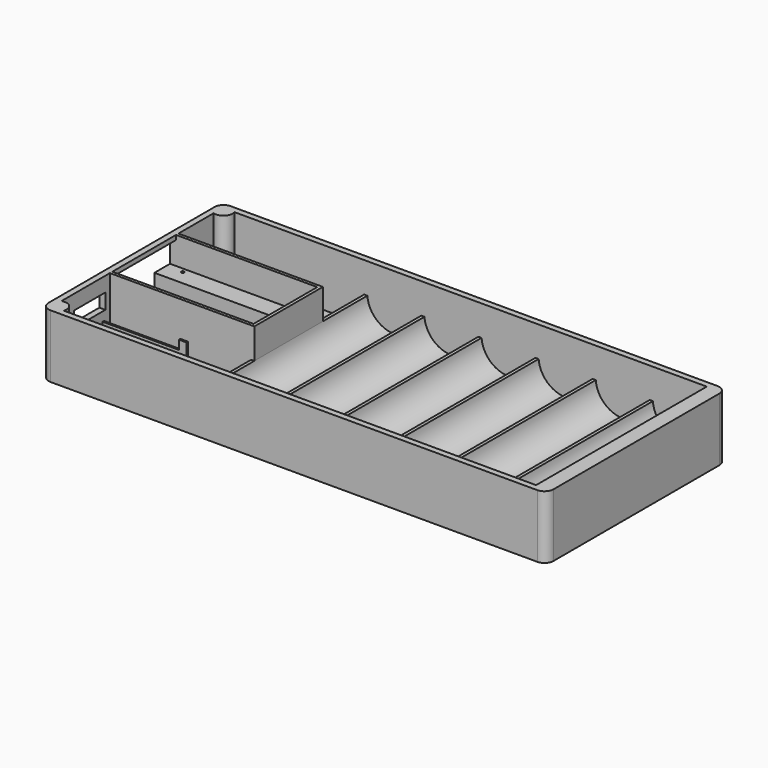
from build123d import *

# Parameters (mm, degrees)
F0_W      = 168
F0_H      = 75
F1_DEPTH  = 21
F2_T      = -2
F4_DEPTH  = 71
F5_R      = 3
F6_R      = 3
F7_DEPTH  = 19
F8_W      = 13.1
F8_H      = 5.1
F9_DEPTH  = 2
F10_W     = 28
F10_H     = 0.6
F11_DEPTH = 6
F12_W     = 46.9999787775
F12_H     = 1
F13_DEPTH = 19
F14_W     = 46.9999787775
F14_H     = 1
F15_DEPTH = 8.9
F16_W     = 48.0559787775
F16_H     = 7.5
F17_DEPTH = 1
F18_W     = 48.0559787775
F18_H     = 1
F19_DEPTH = 9.1
F20_W     = 1.056
F20_H     = 21
F21_DEPTH = 10.1
F22_W     = 1.056
F22_H     = 6.5
F23_DEPTH = 9.1
F25_DEPTH = 2
F26_R     = 0.5
F27_DEPTH = 1
F28_W     = 0.4
F28_H     = 3
F29_DEPTH = 3
F30_W     = 0.5
F30_H     = 17.7
F31_DEPTH = 1
F32_W     = 2.6
F32_H     = 0.6
F33_DEPTH = 3


with BuildPart() as f1:
    # F0 (on Top) → F1 (new body)
    with BuildSketch(Plane.XY):
        with Locations((-84, 37.5)):
            Rectangle(F0_W, F0_H)
    extrude(amount=F1_DEPTH)

    # F2
    f2_openings = [f1.faces().sort_by_distance(p)[0] for p in [
        (-84, 37.5, 21),
    ]]
    offset(amount=F2_T, openings=f2_openings)

    # F3 (on face) → F4 (join, through all)
    with BuildSketch(Plane(origin=(0, 2, 0), x_dir=(-1, 0, 0), z_dir=(0, 1, 0))):
        with BuildLine():
            ThreePointArc((22.9440212225, 10.9), (13.9720106113, 2.6092429707), (5, 10.9))
            Line((5, 10.9), (5, 21))
            Line((5, 21), (2, 21))
            Line((2, 21), (2, 2))
            Line((2, 2), (119.0000212225, 2))
            Line((119.0000212225, 2), (119.0000212225, 10.9))
            Line((119.0000212225, 10.9), (117.9440212225, 10.9))
            ThreePointArc((117.9440212225, 10.9), (108.9720106113, 2.6092429707), (100, 10.9))
            Line((100, 10.9), (98.9440212225, 10.9))
            ThreePointArc((98.9440212225, 10.9), (89.9720106113, 2.6092429707), (81, 10.9))
            Line((81, 10.9), (79.9440212225, 10.9))
            ThreePointArc((79.9440212225, 10.9), (70.9720106113, 2.6092429707), (62, 10.9))
            Line((62, 10.9), (60.9440212225, 10.9))
            ThreePointArc((60.9440212225, 10.9), (51.9720106113, 2.6092429707), (43, 10.9))
            Line((43, 10.9), (41.9440212225, 10.9))
            ThreePointArc((41.9440212225, 10.9), (32.9720106113, 2.6092429707), (24, 10.9))
            Line((24, 10.9), (22.9440212225, 10.9))
        make_face()
    extrude(amount=F4_DEPTH)

    # F5
    f5_edges = [f1.edges().sort_by_distance(p)[0] for p in [
        (0, 75, 10.5),
        (0, 0, 10.5),
        (-168, 0, 10.5),
        (-168, 75, 10.5),
    ]]
    fillet(f5_edges, radius=F5_R)

    # F6 (on face) → F7 (join, through all)
    with BuildSketch(Plane.XY.offset(2)):
        with Locations((-165, 72)):
            Circle(F6_R)
        with Locations((-165, 3)):
            Circle(F6_R)
    extrude(amount=F7_DEPTH)

    # F8 (on face) → F9 (cut, through all)
    with BuildSketch(Plane(origin=(-168, 0, 0), x_dir=(0, -1, 0), z_dir=(-1, 0, 0))):
        with Locations((-17.55, 13.55)):
            Rectangle(F8_W, F8_H)
        with BuildLine():
            Line((-16.902845189, 3.6428064728), (-12.497154811, 3.6428064728))
            ThreePointArc((-12.497154811, 3.6428064728), (-12.2258908226, 3.700700112), (-12.0018967927, 3.8642925918))
            Line((-12.0018967927, 3.8642925918), (-11.1905160366, 4.7714438549))
            ThreePointArc((-11.1905160366, 4.7714438549), (-11.079209337, 5.4856800815), (-11.6857740549, 5.8788744503))
            Line((-11.6857740549, 5.8788744503), (-17.7142259451, 5.8788744503))
            ThreePointArc((-17.7142259451, 5.8788744503), (-18.320790663, 5.4856800815), (-18.2094839634, 4.7714438549))
            Line((-18.2094839634, 4.7714438549), (-17.3981032073, 3.8642925918))
            ThreePointArc((-17.3981032073, 3.8642925918), (-17.1741091774, 3.700700112), (-16.902845189, 3.6428064728))
        make_face()
    extrude(amount=-F9_DEPTH, mode=Mode.SUBTRACT)

    # F10 (on face) → F11 (join)
    with BuildSketch(Plane.XY.offset(2)):
        with Locations((-152, 6.1284271247)):
            Rectangle(F10_W, F10_H)
        with Locations((-152, 23.2284271247)):
            Rectangle(F10_W, F10_H)
    extrude(amount=F11_DEPTH)

    # F12 (on face) → F13 (join, through all)
    with BuildSketch(Plane.XY.offset(2)):
        with Locations((-142.5000106113, 26.5)):
            Rectangle(F12_W, F12_H)
    extrude(amount=F13_DEPTH)

    # F14 (on face) → F15 (join, through all)
    with BuildSketch(Plane.XY.offset(2)):
        with Locations((-142.5000106113, 47.5)):
            Rectangle(F14_W, F14_H)
    extrude(amount=F15_DEPTH)

    # F16 (on face) → F17 (join)
    with BuildSketch(Plane.XY.offset(10.9)):
        with Locations((-141.9720106113, 50.75)):
            Rectangle(F16_W, F16_H)
    extrude(amount=F17_DEPTH)

    # F18 (on face) → F19 (join, through all)
    with BuildSketch(Plane.XY.offset(11.9)):
        with Locations((-141.9720106113, 54)):
            Rectangle(F18_W, F18_H)
    extrude(amount=F19_DEPTH)

    # F20 (on face) → F21 (join, through all)
    with BuildSketch(Plane.XY.offset(10.9)):
        with Locations((-118.4720212225, 36.5)):
            Rectangle(F20_W, F20_H)
    extrude(amount=F21_DEPTH)

    # F22 (on face) → F23 (join, through all)
    with BuildSketch(Plane.XY.offset(11.9)):
        with Locations((-118.4720212225, 50.25)):
            Rectangle(F22_W, F22_H)
    extrude(amount=F23_DEPTH)

    # F24 (on face) → F25 (cut, through all)
    with BuildSketch(Plane.YZ.offset(-166)):
        Polygon((27, 19.5), (27, 2), (47, 2), (47, 11.9), (53.5, 11.9), (53.5, 19.5), align=None)
    extrude(amount=-F25_DEPTH, mode=Mode.SUBTRACT)

    # F26 (on face) → F27 (cut, through all)
    with BuildSketch(Plane.XY.offset(11.9)):
        with Locations((-162.5, 51.9003421068)):
            Circle(F26_R)
    extrude(amount=-F27_DEPTH, mode=Mode.SUBTRACT)

    # F28 (on face) → F29 (join)
    with BuildSketch(Plane.XY.offset(2)):
        with Locations((-138.2, 7.9284271247)):
            Rectangle(F28_W, F28_H)
        with Locations((-138.2, 21.4284271247)):
            Rectangle(F28_W, F28_H)
    extrude(amount=F29_DEPTH)

    # F30 (on face) → F31 (join)
    with BuildSketch(Plane.XY.offset(2)):
        with Locations((-137.75, 14.6784271247)):
            Rectangle(F30_W, F30_H)
    extrude(amount=F31_DEPTH)

    # F32 (on face) → F33 (join)
    with BuildSketch(Plane.XY.offset(8)):
        with Locations((-139.3, 6.1284271247)):
            Rectangle(F32_W, F32_H)
        with Locations((-139.3, 23.2284271247)):
            Rectangle(F32_W, F32_H)
    extrude(amount=F33_DEPTH)


solid = f1.part
